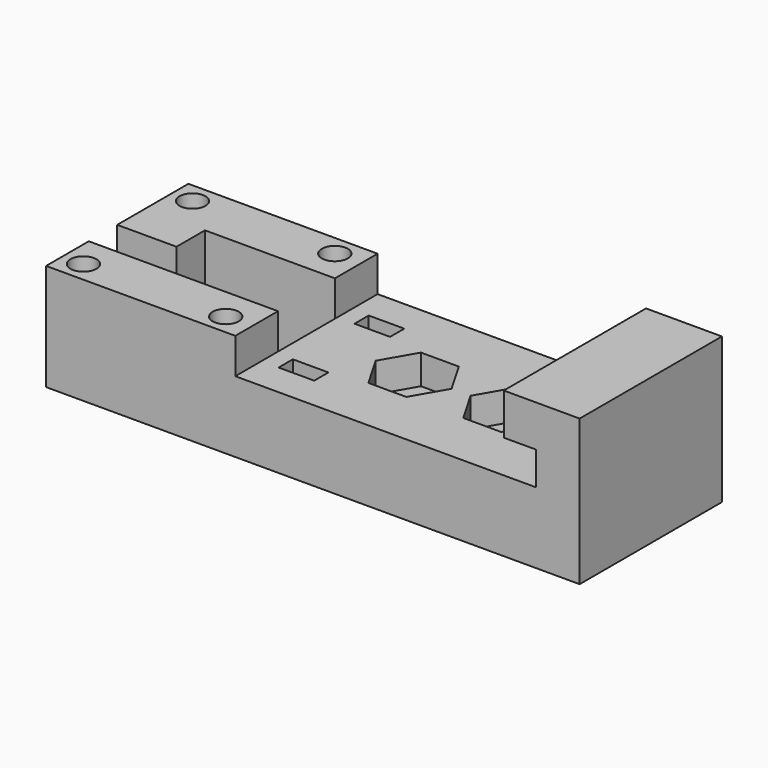
from build123d import *

# Parameters (mm, degrees)
SKETCH_R     = 1.7
SKETCH_R_2   = 1.1
SKETCH_W     = 3
SKETCH_H     = 1.5
PAD_DEPTH    = 6
POCKET_DEPTH = 2.5
SKETCH002_W  = 15.96
SKETCH002_H  = 4.5
SKETCH002_R  = 1.1
PAD001_DEPTH = 3
SKETCH003_W  = 3.7
SKETCH003_H  = 15
PAD002_DEPTH = 6.3
SKETCH004_W  = 15
SKETCH004_H  = 3.5
PAD003_DEPTH = 2.7
SKETCH005_W  = 5
SKETCH005_H  = 9
PAD004_DEPTH = 3


with BuildPart() as part:
    # Sketch → Pad (new body)
    with BuildSketch(Plane.XY):
        Polygon((-20, 7.5), (25, 7.5), (25, -7.5), (-20, -7.5), (-20, -3), (-4.04, -3), (-4.04, 3), (-20, 3), align=None)
        with Locations((5, 0)):
            Circle(SKETCH_R, mode=Mode.SUBTRACT)
        with Locations((13, 0)):
            Circle(SKETCH_R, mode=Mode.SUBTRACT)
        with Locations((-18.25, 5.75)):
            Circle(SKETCH_R_2, mode=Mode.SUBTRACT)
        with Locations((-6.25, 5.75)):
            Circle(SKETCH_R_2, mode=Mode.SUBTRACT)
        with Locations((-18.25, -5.75)):
            Circle(SKETCH_R_2, mode=Mode.SUBTRACT)
        with Locations((-6.25, -5.75)):
            Circle(SKETCH_R_2, mode=Mode.SUBTRACT)
        with Locations((-1.087833, 4)):
            Rectangle(SKETCH_W, SKETCH_H, mode=Mode.SUBTRACT)
        with Locations((-1.087833, -4)):
            Rectangle(SKETCH_W, SKETCH_H, mode=Mode.SUBTRACT)
    extrude(amount=PAD_DEPTH)

    # Sketch001 (on Face24 of Pad) → Pocket (cut)
    with BuildSketch(Plane.XY.offset(6)):
        Polygon((6.6, -2.771281), (8.2, 0), (6.6, 2.771281), (3.4, 2.771281), (1.8, 0), (3.4, -2.771281), align=None)
        Polygon((14.6, -2.771281), (16.2, 0), (14.6, 2.771281), (11.4, 2.771281), (9.8, 0), (11.4, -2.771281), align=None)
    extrude(amount=-POCKET_DEPTH, mode=Mode.SUBTRACT)

    # Sketch002 (on Face5 of Pocket) → Pad001 (join)
    with BuildSketch(Plane.XY.offset(6)):
        with Locations((-12.02, 5.25)):
            Rectangle(SKETCH002_W, SKETCH002_H)
        with Locations((-18.25, 5.75)):
            Circle(SKETCH002_R, mode=Mode.SUBTRACT)
        with Locations((-6.25, 5.75)):
            Circle(SKETCH002_R, mode=Mode.SUBTRACT)
        with Locations((-12.02, -5.25)):
            Rectangle(SKETCH002_W, SKETCH002_H)
        with Locations((-18.25, -5.75)):
            Circle(SKETCH002_R, mode=Mode.SUBTRACT)
        with Locations((-6.25, -5.75)):
            Circle(SKETCH002_R, mode=Mode.SUBTRACT)
    extrude(amount=PAD001_DEPTH)

    # Sketch003 (on Face8 of Pad001) → Pad002 (join)
    with BuildSketch(Plane.XY.offset(6)):
        with Locations((23.15, 0)):
            Rectangle(SKETCH003_W, SKETCH003_H)
    extrude(amount=PAD002_DEPTH)

    # Sketch004 (on Face33 of Pad002) → Pad003 (join)
    with BuildSketch(Plane(origin=(21.3, 0, 0), x_dir=(0, -1, 0), z_dir=(-1, 0, 0))):
        with Locations((0, 10.55)):
            Rectangle(SKETCH004_W, SKETCH004_H)
    extrude(amount=PAD003_DEPTH)

    # Sketch005 (on Face3 of Pad003) → Pad004 (join)
    with BuildSketch(Plane.XZ.offset(-3)):
        with Locations((-17.5, 4.5)):
            Rectangle(SKETCH005_W, SKETCH005_H)
    extrude(amount=PAD004_DEPTH)


solid = part.part
